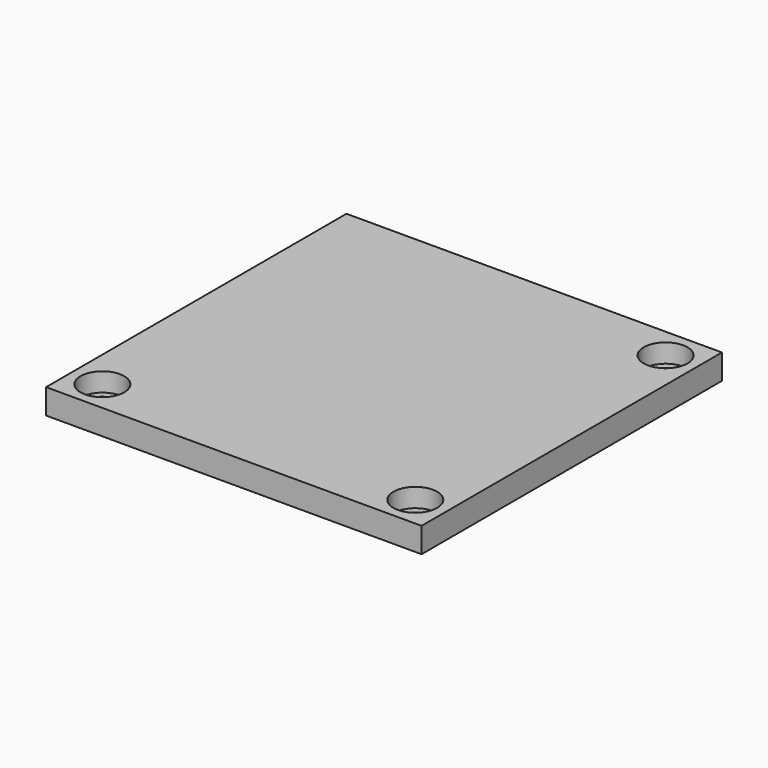
from build123d import *

# Parameters (mm, degrees)
CYLINDER005_R     = 3.5
CYLINDER005_DEPTH = 3
CYLINDER004_R     = 2.4
CYLINDER004_DEPTH = 10
CYLINDER007_R     = 3.5
CYLINDER007_DEPTH = 3
CYLINDER006_R     = 2.4
CYLINDER006_DEPTH = 10
CYLINDER009_R     = 3.5
CYLINDER009_DEPTH = 3
CYLINDER008_R     = 2.4
CYLINDER008_DEPTH = 10
BOX001_W          = 60
BOX001_H          = 60
BOX001_DEPTH      = 4


with BuildPart() as cylinder005:
    # Cylinder005 → Cylinder005 (new body)
    with BuildSketch(Plane.XY.offset(1)):
        Circle(CYLINDER005_R)
    extrude(amount=CYLINDER005_DEPTH)


with BuildPart() as fusion004:
    # Cylinder004 → Cylinder004 (new body)
    with BuildSketch(Plane.XY):
        Circle(CYLINDER004_R)
    extrude(amount=CYLINDER004_DEPTH)

    # Fusion004: union Cylinder005
    add(cylinder005.part)


with BuildPart() as fusion004_1:
    # Fusion004 placement: moved
    add(fusion004.part.moved(Location((5, 5, 0))))


with BuildPart() as cylinder007:
    # Cylinder007 → Cylinder007 (new body)
    with BuildSketch(Plane.XY.offset(1)):
        Circle(CYLINDER007_R)
    extrude(amount=CYLINDER007_DEPTH)


with BuildPart() as fusion005:
    # Cylinder006 → Cylinder006 (new body)
    with BuildSketch(Plane.XY):
        Circle(CYLINDER006_R)
    extrude(amount=CYLINDER006_DEPTH)

    # Fusion005: union Cylinder007
    add(cylinder007.part)


with BuildPart() as fusion005_1:
    # Fusion005 placement: moved
    add(fusion005.part.moved(Location((55, 5, 0))))


with BuildPart() as cylinder009:
    # Cylinder009 → Cylinder009 (new body)
    with BuildSketch(Plane.XY.offset(1)):
        Circle(CYLINDER009_R)
    extrude(amount=CYLINDER009_DEPTH)


with BuildPart() as compound001:
    # Cylinder008 → Cylinder008 (new body)
    with BuildSketch(Plane.XY):
        Circle(CYLINDER008_R)
    extrude(amount=CYLINDER008_DEPTH)

    # Fusion006: union Cylinder009
    add(cylinder009.part)


with BuildPart() as compound001_1:
    # Fusion006 placement: moved
    add(compound001.part.moved(Location((55, 55, 0))))

    # Compound001: union Fusion004, Fusion005
    add(fusion004_1.part)
    add(fusion005_1.part)


with BuildPart() as obj1:
    # Box001 → Box001 (new body)
    with BuildSketch(Plane.XY):
        with Locations((30, 30)):
            Rectangle(BOX001_W, BOX001_H)
    extrude(amount=BOX001_DEPTH)

    # Cut002: cut Compound001
    add(compound001_1.part, mode=Mode.SUBTRACT)


solid = obj1.part
